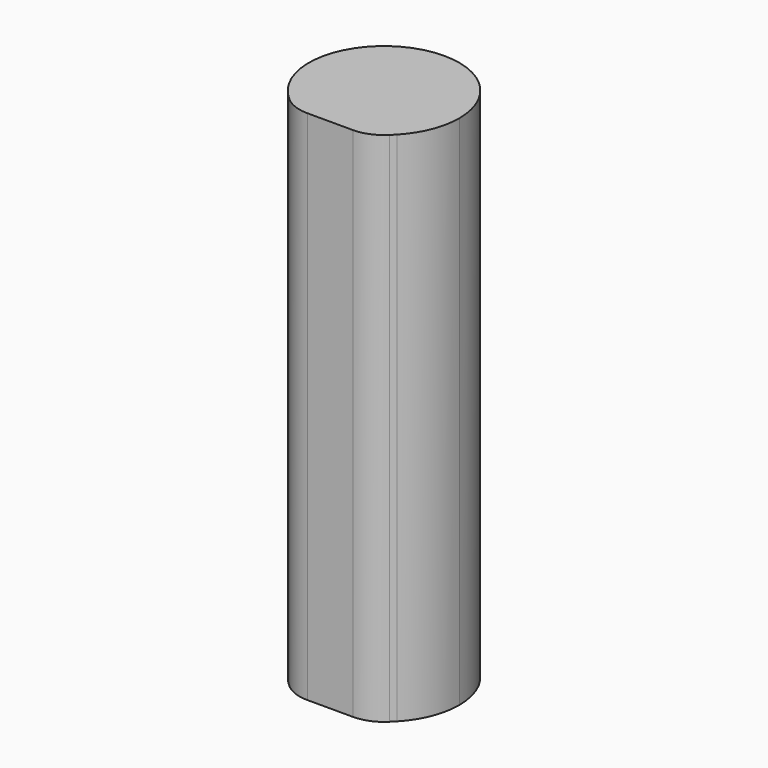
from build123d import *

# Parameters (mm, degrees)
CYLINDER_R        = 7.25
CYLINDER_DEPTH    = 49.8
CYLINDER003_R     = 1.5
CYLINDER003_DEPTH = 1
CYLINDER001_R     = 5.25
CYLINDER001_DEPTH = 45.8
CYLINDER002_R     = 5
CYLINDER002_DEPTH = 45.8
BOX_W             = 9
BOX_H             = 0.01
BOX_DEPTH         = 2
BOX006_W          = 9
BOX006_H          = 3
BOX006_DEPTH      = 8
BOX002_W          = 15
BOX002_H          = 10
BOX002_DEPTH      = 49.8
BOX003_W          = 10.5
BOX003_H          = 1.5
BOX003_DEPTH      = 49.8
CHAMFER_SIZE      = 1.499
FILLET_R          = 3.75
BOX004_W          = 2.75
BOX004_H          = 0.1
BOX004_DEPTH      = 5
BOX005_W          = 2.75
BOX005_H          = 0.1
BOX005_DEPTH      = 5
CYLINDER004_R     = 1
CYLINDER004_DEPTH = 4
CYLINDER005_R     = 1.5
CYLINDER005_DEPTH = 2
CYLINDER006_R     = 1.5
CYLINDER006_DEPTH = 2


with BuildPart() as part:
    # Cylinder → Cylinder (join)
    with BuildSketch(Plane.XY):
        Circle(CYLINDER_R)
    extrude(amount=CYLINDER_DEPTH)

    # Cylinder003 → Cylinder003 (join)
    with BuildSketch(Plane.XY.offset(-0.8)):
        Circle(CYLINDER003_R)
    extrude(amount=CYLINDER003_DEPTH)

    # Cylinder001 → Cylinder001 (cut)
    with BuildSketch(Plane.XY.offset(2)):
        Circle(CYLINDER001_R)
    extrude(amount=CYLINDER001_DEPTH, mode=Mode.SUBTRACT)

    # Cylinder002 → Cylinder002 (cut)
    with BuildSketch(Plane(origin=(0, 5, 2), x_dir=(1, 0, 0), z_dir=(0, 0, 1))):
        Circle(CYLINDER002_R)
    extrude(amount=CYLINDER002_DEPTH, mode=Mode.SUBTRACT)

    # Box → Box (cut)
    with BuildSketch(Plane(origin=(-4.5, -5, 0), x_dir=(1, 0, 0), z_dir=(0, 0, 1))):
        with Locations((4.5, 0.005)):
            Rectangle(BOX_W, BOX_H)
    extrude(amount=BOX_DEPTH, mode=Mode.SUBTRACT)

    # Box006 → Box006 (cut)
    with BuildSketch(Plane(origin=(-4.5, -2, 2), x_dir=(1, 0, 0), z_dir=(0, 0, 1))):
        with Locations((4.5, 1.5)):
            Rectangle(BOX006_W, BOX006_H)
    extrude(amount=BOX006_DEPTH, mode=Mode.SUBTRACT)

    # Box002 → Box002 (cut)
    with BuildSketch(Plane(origin=(-7.5, -15, 0), x_dir=(1, 0, 0), z_dir=(0, 0, 1))):
        with Locations((7.5, 5)):
            Rectangle(BOX002_W, BOX002_H)
    extrude(amount=BOX002_DEPTH, mode=Mode.SUBTRACT)

    # Box003 → Box003 (join)
    with BuildSketch(Plane(origin=(-5.25, -6.5, 0), x_dir=(1, 0, 0), z_dir=(0, 0, 1))):
        with Locations((5.25, 0.75)):
            Rectangle(BOX003_W, BOX003_H)
    extrude(amount=BOX003_DEPTH)

    # Chamfer
    chamfer_edges = [part.edges().sort_by_distance(p)[0] for p in [
        (5.25, -6.5, 24.9),
        (-5.25, -6.5, 24.9),
    ]]
    chamfer(chamfer_edges, length=CHAMFER_SIZE)

    # Fillet
    fillet_edges = [part.edges().sort_by_distance(p)[0] for p in [
        (3.751, -6.5, 24.9),
        (-3.751, -6.5, 24.9),
    ]]
    fillet(fillet_edges, radius=FILLET_R)

    # Box004 → Box004 (join)
    with BuildSketch(Plane(origin=(-5, -5, 10), x_dir=(1, 0, 0), z_dir=(0, 0, 1))):
        with Locations((1.375, 0.05)):
            Rectangle(BOX004_W, BOX004_H)
    extrude(amount=BOX004_DEPTH)

    # Box005 → Box005 (join)
    with BuildSketch(Plane(origin=(2.25, -5, 10), x_dir=(1, 0, 0), z_dir=(0, 0, 1))):
        with Locations((1.375, 0.05)):
            Rectangle(BOX005_W, BOX005_H)
    extrude(amount=BOX005_DEPTH)

    # Cylinder004 → Cylinder004 (cut)
    with BuildSketch(Plane(origin=(0, 2, -1.55), x_dir=(1, 0, 0), z_dir=(0, -1, 0))):
        Circle(CYLINDER004_R)
    extrude(amount=CYLINDER004_DEPTH, mode=Mode.SUBTRACT)

    # Cylinder005 → Cylinder005 (cut)
    with BuildSketch(Plane(origin=(0, -3.2, 0), x_dir=(1, 0, 0), z_dir=(0, 0, 1))):
        Circle(CYLINDER005_R)
    extrude(amount=CYLINDER005_DEPTH, mode=Mode.SUBTRACT)

    # Cylinder006 → Cylinder006 (cut)
    with BuildSketch(Plane(origin=(0, 3.2, 0), x_dir=(1, 0, 0), z_dir=(0, 0, 1))):
        Circle(CYLINDER006_R)
    extrude(amount=CYLINDER006_DEPTH, mode=Mode.SUBTRACT)


solid = part.part
